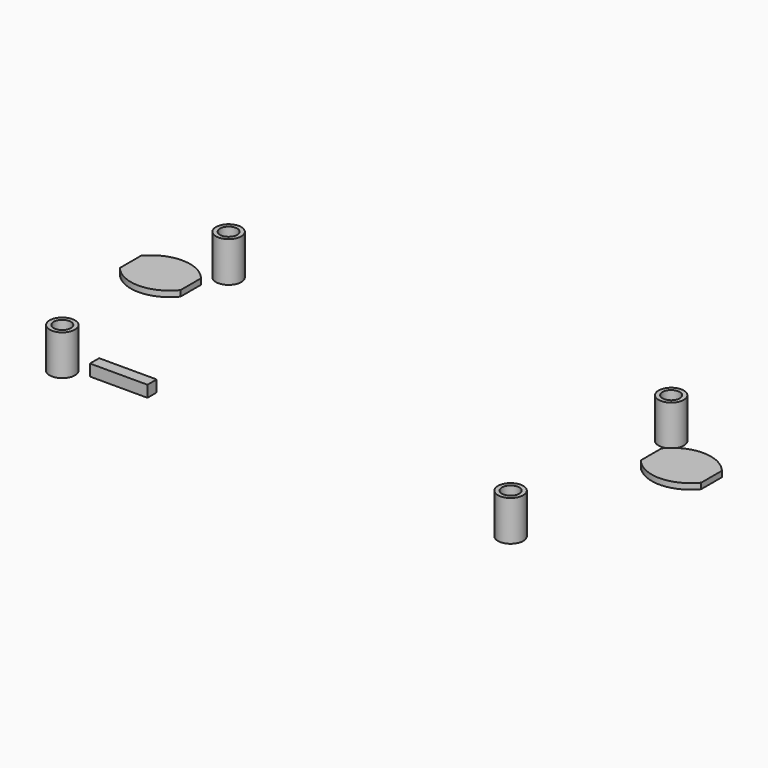
from build123d import *

# Parameters (mm, degrees)
PAD002_DEPTH      = 2
PAD001_DEPTH      = 2
CYLINDER005_R     = 3
CYLINDER005_DEPTH = 12
CYLINDER001_R     = 4.4
CYLINDER001_DEPTH = 14
CYLINDER006_R     = 3
CYLINDER006_DEPTH = 12
CYLINDER002_R     = 4.4
CYLINDER002_DEPTH = 14
CYLINDER007_R     = 3
CYLINDER007_DEPTH = 12
CYLINDER003_R     = 4.4
CYLINDER003_DEPTH = 14
CYLINDER004_R     = 3
CYLINDER004_DEPTH = 12
CYLINDER_R        = 4.4
CYLINDER_DEPTH    = 14
BOX001_W          = 20
BOX001_H          = 4
BOX001_DEPTH      = 4


with BuildPart() as pad002:
    # Sketch003 → Pad002 (new body)
    with BuildSketch(Plane(origin=(0, 0, 0), x_dir=(1, 0, 0), z_dir=(0, 0, -1))):
        with BuildLine():
            ThreePointArc((178.893232, -53.934706), (168.393174, -48.944611), (157.893232, -53.934952))
            Line((157.893232, -53.934952), (157.893232, -62.974569))
            ThreePointArc((157.893232, -62.974569), (168.403507, -67.944051), (178.893232, -62.931336))
            Line((178.893232, -53.934706), (178.893232, -62.931336))
        make_face()
    extrude(amount=-PAD002_DEPTH)


with BuildPart() as fusion:
    # Sketch002 → Pad001 (new body)
    with BuildSketch(Plane(origin=(0, 0, 0), x_dir=(1, 0, 0), z_dir=(0, 0, -1))):
        with BuildLine():
            ThreePointArc((-2.141905, -54.052414), (-12.613383, -48.985427), (-23.138757, -53.93949))
            Line((-23.138757, -53.93949), (-23.138757, -63.099138))
            ThreePointArc((-23.138757, -63.099138), (-12.602642, -67.994215), (-2.141905, -62.940062))
            Line((-2.141905, -54.052414), (-2.141905, -62.940062))
        make_face()
    extrude(amount=-PAD001_DEPTH)

    # Fusion: union Pad002
    add(pad002.part)


with BuildPart() as cylinder005:
    # Cylinder005 → Cylinder005 (new body)
    with BuildSketch(Plane(origin=(155.8, 0, 2), x_dir=(1, 0, 0), z_dir=(0, 0, 1))):
        Circle(CYLINDER005_R)
    extrude(amount=CYLINDER005_DEPTH)


with BuildPart() as cut001:
    # Cylinder001 → Cylinder001 (new body)
    with BuildSketch(Plane(origin=(155.8, 0, 0), x_dir=(1, 0, 0), z_dir=(0, 0, 1))):
        Circle(CYLINDER001_R)
    extrude(amount=CYLINDER001_DEPTH)

    # Cut001: cut Cylinder005
    add(cylinder005.part, mode=Mode.SUBTRACT)


with BuildPart() as cylinder006:
    # Cylinder006 → Cylinder006 (new body)
    with BuildSketch(Plane(origin=(155.8, 71, 2), x_dir=(1, 0, 0), z_dir=(0, 0, 1))):
        Circle(CYLINDER006_R)
    extrude(amount=CYLINDER006_DEPTH)


with BuildPart() as cut002:
    # Cylinder002 → Cylinder002 (new body)
    with BuildSketch(Plane(origin=(155.8, 71, 0), x_dir=(1, 0, 0), z_dir=(0, 0, 1))):
        Circle(CYLINDER002_R)
    extrude(amount=CYLINDER002_DEPTH)

    # Cut002: cut Cylinder006
    add(cylinder006.part, mode=Mode.SUBTRACT)


with BuildPart() as cut002_1:
    # Cut002 placement: moved
    add(cut002.part.moved(Location((-1, 0, 0))))


with BuildPart() as cylinder007:
    # Cylinder007 → Cylinder007 (new body)
    with BuildSketch(Plane(origin=(0, 71, 2), x_dir=(1, 0, 0), z_dir=(0, 0, 1))):
        Circle(CYLINDER007_R)
    extrude(amount=CYLINDER007_DEPTH)


with BuildPart() as cut003:
    # Cylinder003 → Cylinder003 (new body)
    with BuildSketch(Plane(origin=(0, 71, 0), x_dir=(1, 0, 0), z_dir=(0, 0, 1))):
        Circle(CYLINDER003_R)
    extrude(amount=CYLINDER003_DEPTH)

    # Cut003: cut Cylinder007
    add(cylinder007.part, mode=Mode.SUBTRACT)


with BuildPart() as cut003_1:
    # Cut003 placement: moved
    add(cut003.part.moved(Location((1, 0, 0))))


with BuildPart() as cylinder004:
    # Cylinder004 → Cylinder004 (new body)
    with BuildSketch(Plane.XY.offset(2)):
        Circle(CYLINDER004_R)
    extrude(amount=CYLINDER004_DEPTH)


with BuildPart() as fusion001:
    # Cylinder → Cylinder (new body)
    with BuildSketch(Plane.XY):
        Circle(CYLINDER_R)
    extrude(amount=CYLINDER_DEPTH)

    # Cut: cut Cylinder004
    add(cylinder004.part, mode=Mode.SUBTRACT)

    # Fusion001: union Cut001, Cut002, Cut003
    add(cut001.part)
    add(cut002_1.part)
    add(cut003_1.part)


with BuildPart() as cube001:
    # Box001 → Box001 (new body)
    with BuildSketch(Plane(origin=(8, 2, 0), x_dir=(1, 0, 0), z_dir=(0, 0, 1))):
        with Locations((10, 2)):
            Rectangle(BOX001_W, BOX001_H)
    extrude(amount=BOX001_DEPTH)


solid = Compound([fusion.part, fusion001.part, cube001.part])
